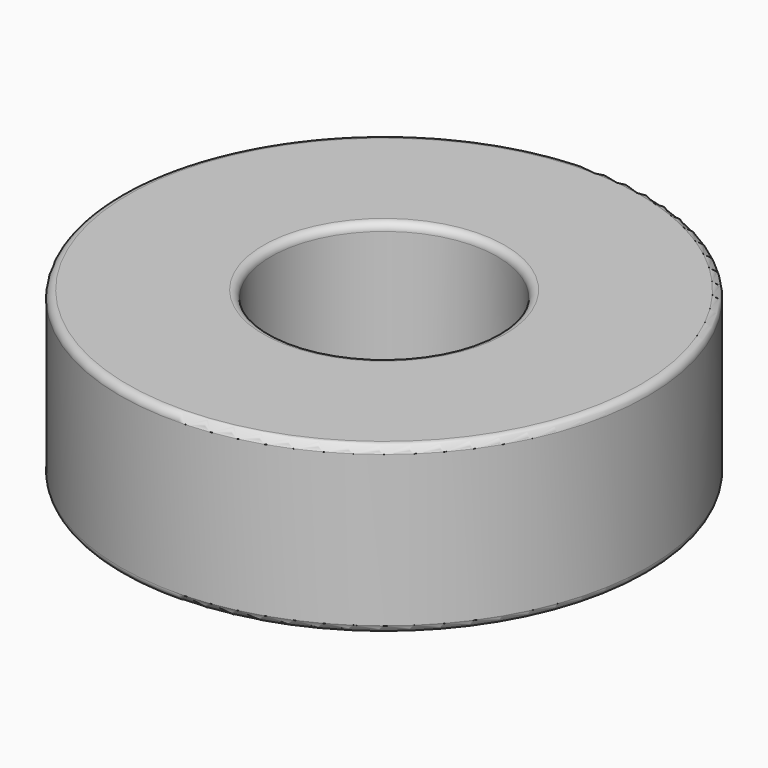
from build123d import *

# Parameters (mm, degrees)
F0_R     = 17.5
F1_DEPTH = 11
F2_R     = 7.5
F3_DEPTH = 11.001
F4_R     = 0.5
F5_R     = 0.5


with BuildPart() as f1:
    # F0 (on Top) → F1 (new body)
    with BuildSketch(Plane.XY):
        Circle(F0_R)
    extrude(amount=F1_DEPTH)

    # F2 (on face) → F3 (cut, through all)
    with BuildSketch(Plane.XY.offset(11)):
        Circle(F2_R)
    extrude(amount=-F3_DEPTH, mode=Mode.SUBTRACT)

    # F4
    f4_edges = [f1.edges().sort_by_distance(p)[0] for p in [
        (-17.5, 0, 11),
        (-17.5, 0, 0),
    ]]
    fillet(f4_edges, radius=F4_R)

    # F5
    f5_edges = [f1.edges().sort_by_distance(p)[0] for p in [
        (-7.5, 0, 11),
        (-7.5, 0, 0),
    ]]
    fillet(f5_edges, radius=F5_R)


solid = f1.part
